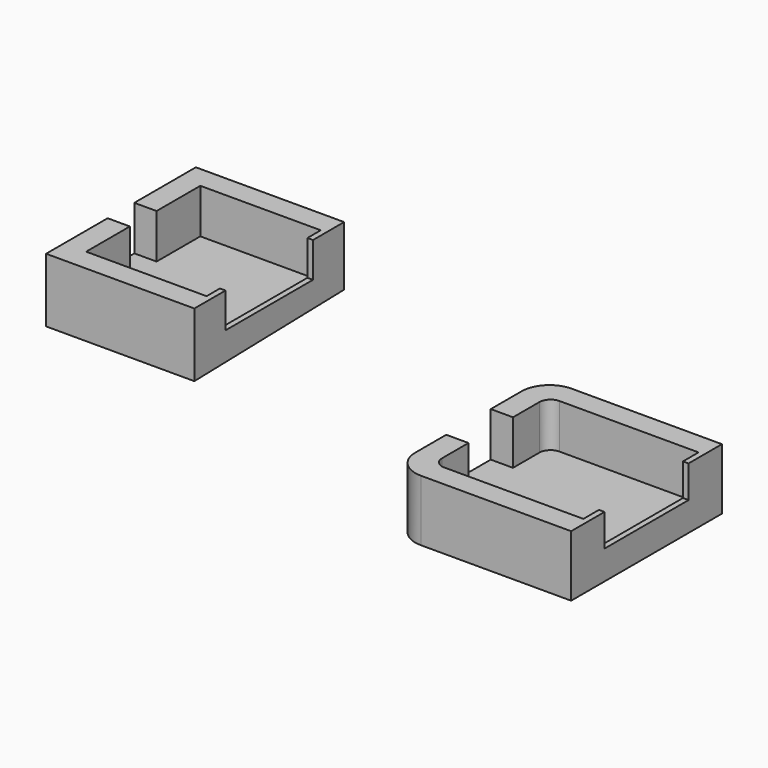
from build123d import *

# Parameters (mm, degrees)
F0_W     = 21.65
F0_H     = 4
F0_W_2   = 1
F0_H_2   = 19.65
F1_DEPTH = 6
F2_DEPTH = 8
F3_DEPTH = 1.7
F5_DEPTH = 26.65
F0_W_3   = 27
F0_H_3   = 18.88
F6_DEPTH = 3
F7_DEPTH = 8
F8_DEPTH = 2.2
F9_R     = 2
F10_R    = 5


with BuildPart() as f1:
    # F0 (on Top) → F1 (new body)
    with BuildSketch(Plane.XY):
        Polygon((-65.734881, 57.633254), (-65.734881, 43.808254), (-61.734881, 43.808254), (-61.734881, 53.633254), (-61.734881, 57.633254), align=None)
        with Locations((-50.909881, 55.633254)):
            Rectangle(F0_W, F0_H)
        Polygon((-61.734881, 43.808254), (-65.734881, 43.808254), (-65.734881, 37.808254), (-61.734881, 37.808254), (-61.734881, 27.983254), (-40.084881, 27.983254), (-40.084881, 30.983254), (-40.084881, 50.633254), (-40.084881, 53.633254), (-61.734881, 53.633254), align=None)
        Polygon((-61.734881, 37.808254), (-65.734881, 37.808254), (-65.734881, 23.983254), (-61.734881, 23.983254), (-61.734881, 27.983254), align=None)
        with Locations((-50.909881, 25.983254)):
            Rectangle(F0_W, F0_H)
        Polygon((-40.084881, 30.983254), (-40.084881, 27.983254), (-40.084881, 23.983254), (-39.084881, 23.983254), (-39.084881, 30.983254), align=None)
        with Locations((-39.584881, 40.808254)):
            Rectangle(F0_W_2, F0_H_2)
        Polygon((-40.084881, 57.633254), (-40.084881, 53.633254), (-40.084881, 50.633254), (-39.084881, 50.633254), (-39.084881, 57.633254), align=None)
    extrude(amount=-F1_DEPTH)

    # F0 (on Top) → F2 (join)
    with BuildSketch(Plane.XY):
        Polygon((-65.734881, 57.633254), (-65.734881, 43.808254), (-61.734881, 43.808254), (-61.734881, 53.633254), (-61.734881, 57.633254), align=None)
        with Locations((-50.909881, 55.633254)):
            Rectangle(F0_W, F0_H)
        Polygon((-61.734881, 37.808254), (-65.734881, 37.808254), (-65.734881, 23.983254), (-61.734881, 23.983254), (-61.734881, 27.983254), align=None)
        with Locations((-50.909881, 25.983254)):
            Rectangle(F0_W, F0_H)
        Polygon((-40.084881, 30.983254), (-40.084881, 27.983254), (-40.084881, 23.983254), (-39.084881, 23.983254), (-39.084881, 30.983254), align=None)
        Polygon((-40.084881, 57.633254), (-40.084881, 53.633254), (-40.084881, 50.633254), (-39.084881, 50.633254), (-39.084881, 57.633254), align=None)
    extrude(amount=F2_DEPTH)

    # F0 (on Top) → F3 (join)
    with BuildSketch(Plane.XY):
        with Locations((-39.584881, 40.808254)):
            Rectangle(F0_W_2, F0_H_2)
    extrude(amount=F3_DEPTH)

    # F4 (on face) → F5 (cut, through all)
    with BuildSketch(Plane(origin=(-65.734881, 0, 0), x_dir=(0, -1, 0), z_dir=(-1, 0, 0))):
        Polygon((-23.983254, -3.5), (-57.633254, -2.7), (-57.633254, -6), (-23.983254, -6), align=None)
    extrude(amount=-F5_DEPTH, mode=Mode.SUBTRACT)


with BuildPart() as f6:
    # F0 (on Top) → F6 (new body)
    with BuildSketch(Plane.XY):
        Polygon((12.495861, 38.040668), (12.495861, 26.100668), (16.495861, 26.100668), (16.495861, 34.040668), (16.495861, 38.040668), align=None)
        with Locations((29.995861, 36.040668)):
            Rectangle(F0_W_3, F0_H)
        Polygon((43.495861, 38.040668), (43.495861, 34.040668), (43.495861, 30.540668), (44.495861, 30.540668), (44.495861, 38.040668), align=None)
        with Locations((43.995861, 21.100668)):
            Rectangle(F0_W_2, F0_H_3)
        Polygon((43.495861, 11.660668), (43.495861, 8.160668), (43.495861, 4.160668), (44.495861, 4.160668), (44.495861, 11.660668), align=None)
        with Locations((29.995861, 6.160668)):
            Rectangle(F0_W_3, F0_H)
        Polygon((16.495861, 16.100668), (12.495861, 16.100668), (12.495861, 4.160668), (16.495861, 4.160668), (16.495861, 8.160668), align=None)
        Polygon((16.495861, 26.100668), (12.495861, 26.100668), (12.495861, 16.100668), (16.495861, 16.100668), (16.495861, 8.160668), (43.495861, 8.160668), (43.495861, 11.660668), (43.495861, 30.540668), (43.495861, 34.040668), (16.495861, 34.040668), align=None)
    extrude(amount=-F6_DEPTH)

    # F0 (on Top) → F7 (join)
    with BuildSketch(Plane.XY):
        Polygon((12.495861, 38.040668), (12.495861, 26.100668), (16.495861, 26.100668), (16.495861, 34.040668), (16.495861, 38.040668), align=None)
        with Locations((29.995861, 36.040668)):
            Rectangle(F0_W_3, F0_H)
        Polygon((16.495861, 16.100668), (12.495861, 16.100668), (12.495861, 4.160668), (16.495861, 4.160668), (16.495861, 8.160668), align=None)
        with Locations((29.995861, 6.160668)):
            Rectangle(F0_W_3, F0_H)
        Polygon((43.495861, 11.660668), (43.495861, 8.160668), (43.495861, 4.160668), (44.495861, 4.160668), (44.495861, 11.660668), align=None)
        Polygon((43.495861, 38.040668), (43.495861, 34.040668), (43.495861, 30.540668), (44.495861, 30.540668), (44.495861, 38.040668), align=None)
    extrude(amount=F7_DEPTH)

    # F0 (on Top) → F8 (join)
    with BuildSketch(Plane.XY):
        with Locations((43.995861, 21.100668)):
            Rectangle(F0_W_2, F0_H_3)
    extrude(amount=F8_DEPTH)

    # F9
    f9_edges = [f6.edges().sort_by_distance(p)[0] for p in [
        (16.495861, 34.040668, 4),
        (16.495861, 8.160668, 4),
    ]]
    fillet(f9_edges, radius=F9_R)

    # F10
    f10_edges = [f6.edges().sort_by_distance(p)[0] for p in [
        (12.495861, 38.040668, 2.5),
        (12.495861, 4.160668, 2.5),
    ]]
    fillet(f10_edges, radius=F10_R)


solid = Compound([f1.part, f6.part])
